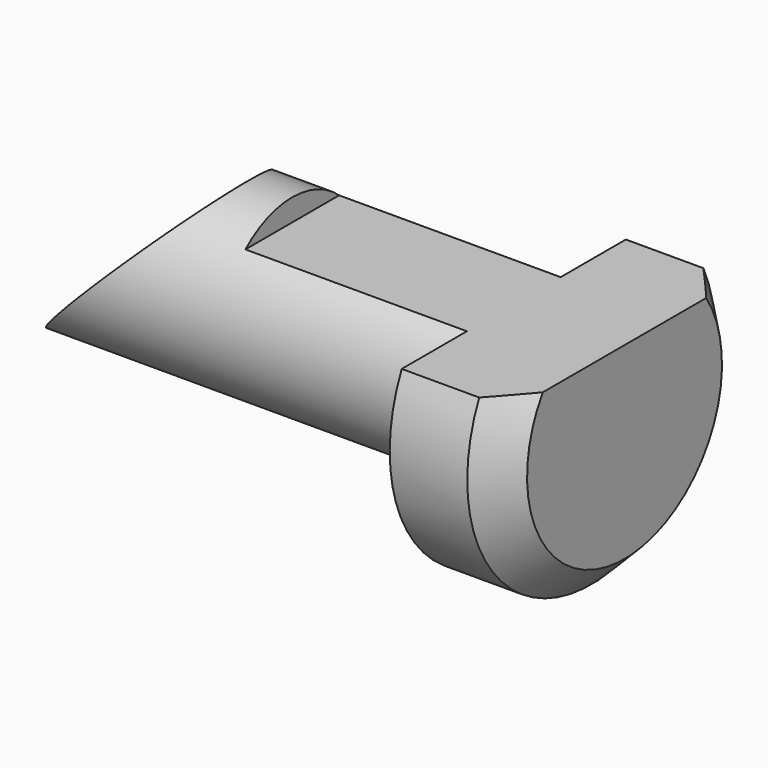
from build123d import *

# Parameters (mm, degrees)
F2_SIZE  = 3
F3_W     = 30
F3_H     = 8.326223
F3_H_2   = 2
F4_DEPTH = 15
F6_DEPTH = 15


with BuildPart() as f1:
    # F0 (on Front) → F1 (revolve)
    with BuildSketch(Plane.XZ):
        Polygon((-40, 8), (-40, 0), (10, 0), (10, 14), (0, 14), (0, 8), align=None)
    revolve(axis=Axis((-23.084291, 0, 0), (-1, 0, 0)))

    # F2
    f2_edges = [f1.edges().sort_by_distance(p)[0] for p in [
        (10, 0, -14),
    ]]
    chamfer(f2_edges, length=F2_SIZE)

    # F3 (on Front) → F4 (cut, symmetric)
    with BuildSketch(Plane.XZ):
        with Locations((-5, 12.163677)):
            Rectangle(F3_W, F3_H)
        with Locations((-5, 7.000566)):
            Rectangle(F3_W, F3_H_2)
    extrude(amount=F4_DEPTH, both=True, mode=Mode.SUBTRACT)

    # F5 (on Front) → F6 (cut, symmetric)
    with BuildSketch(Plane.XZ):
        Polygon((-24, 8), (-40, 8), (-40, -8), align=None)
    extrude(amount=F6_DEPTH, both=True, mode=Mode.SUBTRACT)


solid = f1.part
